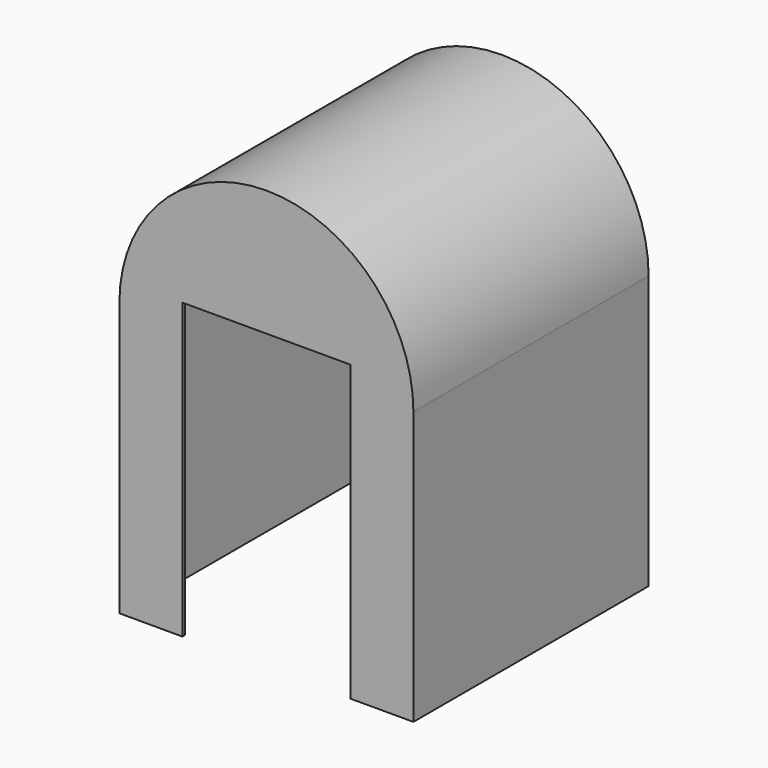
from build123d import *

# Parameters (mm, degrees)
F1_DEPTH = 1066.8
F2_W     = 1219.2
F2_H     = 2133.6
F3_DEPTH = 2108.2
F5_DEPTH = 1041.4


with BuildPart() as f1:
    # F0 (on Front) → F1 (new body, symmetric)
    with BuildSketch(Plane.XZ):
        with BuildLine():
            Line((-74.517928, 128.713136), (-74.517928, -1852.486864))
            Line((-74.517928, -1852.486864), (2059.082072, -1852.486864))
            Line((2059.082072, -1852.486864), (2059.082072, 128.713136))
            ThreePointArc((2059.082072, 128.713136), (992.282072, 1195.513136), (-74.517928, 128.713136))
        make_face()
    extrude(amount=F1_DEPTH, both=True)

    # F2 (on face) → F3 (cut)
    with BuildSketch(Plane.XZ.offset(1066.8)):
        with Locations((992.282072, -785.686864)):
            Rectangle(F2_W, F2_H)
    extrude(amount=-F3_DEPTH, mode=Mode.SUBTRACT)

    # F4 (on Front) → F5 (cut, symmetric)
    with BuildSketch(Plane.XZ):
        with BuildLine():
            Line((-49.117928, 128.713136), (-49.117928, -1852.486864))
            Line((-49.117928, -1852.486864), (2033.682072, -1852.486864))
            Line((2033.682072, -1852.486864), (2033.682072, 128.713136))
            ThreePointArc((2033.682072, 128.713136), (992.282072, 1170.113136), (-49.117928, 128.713136))
        make_face()
    extrude(amount=F5_DEPTH, both=True, mode=Mode.SUBTRACT)


solid = f1.part
